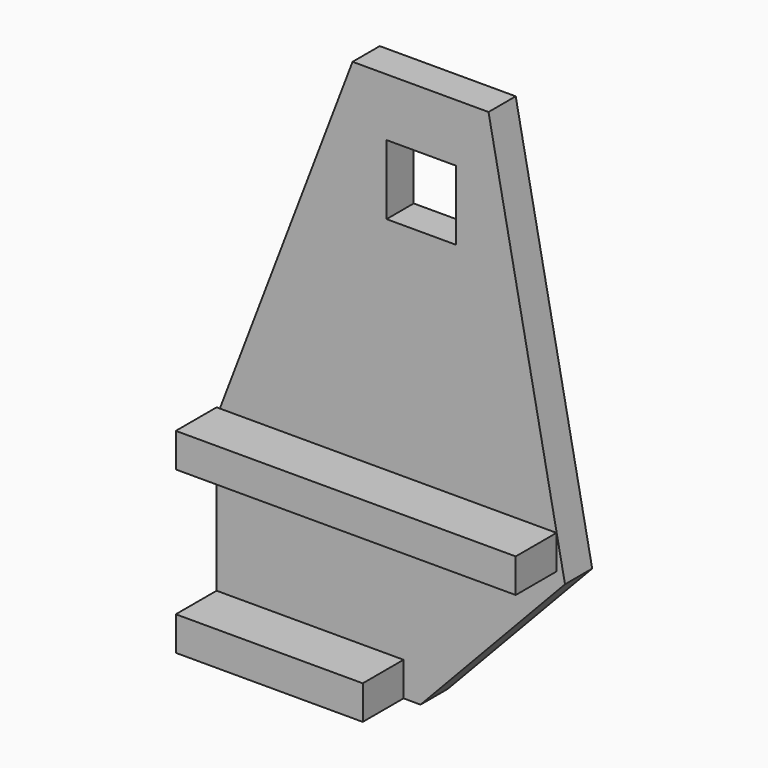
from build123d import *

# Parameters (mm, degrees)
F1_DEPTH = 6.35
F2_W     = 13.0048
F2_H     = 13.0048
F3_DEPTH = 25.4
F4_W     = 9.525
F4_H     = 6.35
F5_DEPTH = 34.925
F6_W     = 9.525
F6_H     = 6.35
F7_DEPTH = 63.5


with BuildPart() as f1:
    # F0 (on Front) → F1 (new body)
    with BuildSketch(Plane.XZ):
        Polygon((0, 34.925), (0, 0), (38.1, 0), (65.0875, 28.575), (50.8, 101.6), (25.4, 101.6), align=None)
    extrude(amount=F1_DEPTH)

    # F2 (on face) → F3 (cut)
    with BuildSketch(Plane.XZ.offset(6.35)):
        with Locations((38.2524, 84.2899)):
            Rectangle(F2_W, F2_H)
    extrude(amount=-F3_DEPTH, mode=Mode.SUBTRACT)


with BuildPart() as f5:
    # F4 (on face) → F5 (new body)
    with BuildSketch(Plane(origin=(0, 0, 0), x_dir=(0, -1, 0), z_dir=(-1, 0, 0))):
        with Locations((11.1125, 3.175)):
            Rectangle(F4_W, F4_H)
    extrude(amount=-F5_DEPTH)


with BuildPart() as f7:
    # F6 (on face) → F7 (new body)
    with BuildSketch(Plane(origin=(0, 0, 0), x_dir=(0, -1, 0), z_dir=(-1, 0, 0))):
        with Locations((11.1125, 33.3375)):
            Rectangle(F6_W, F6_H)
    extrude(amount=-F7_DEPTH)


solid = Compound([f1.part, f5.part, f7.part])
